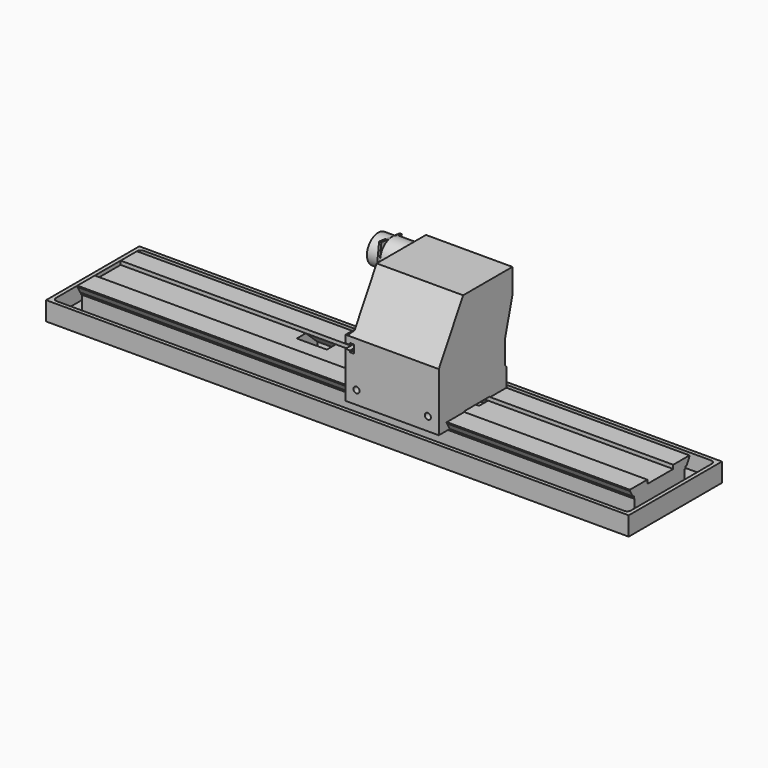
from build123d import *

# Parameters (mm, degrees)
F1_DEPTH       = 735
F2_W           = 1550
F2_H           = 310
F3_DEPTH       = 10
F4_W           = 1550
F4_H           = 310
F5_DEPTH       = 40
F7_DEPTH       = 10.0000041723
F10_DEPTH      = 80
F14_DEPTH      = 127.74
F14_DEPTH_BACK = 117
F16_DEPTH      = 248
F18_D          = 16
F19_R          = 40
F20_DEPTH      = 56
F21_R          = 37.5
F22_DEPTH      = 37
F23_R          = 20
F24_DEPTH      = 2
F25_W          = 100
F25_H          = 60
F26_DEPTH      = 38
F28_DEPTH      = 6


with BuildPart() as f1:
    # F0 (on Right) → F1 (new body, symmetric)
    with BuildSketch(Plane.YZ):
        Polygon((97, 0), (43, 0), (43, -10), (-43, -10), (-43, 0), (-101, 0), (-101, -3), (-91.1850454238, -20), (-88.1850454238, -20), (-88.1850454238, -26), (-85.1850454238, -26), (-85.1850454238, -65), (81.1850454238, -65), (81.1850454238, -26), (84.1850454238, -26), (84.1850454238, -20), (87.1850454238, -20), (97, -3), align=None)
    extrude(amount=F1_DEPTH, both=True)

    # F2 (on face) → F3 (join)
    with BuildSketch(Plane(origin=(0, 0, -65), x_dir=(1, 0, 0), z_dir=(0, 0, -1))):
        Rectangle(F2_W, F2_H)
    extrude(amount=F3_DEPTH)

    # F4 (on face) → F5 (join)
    with BuildSketch(Plane.XY.offset(-65)):
        Rectangle(F4_W, F4_H)
        with BuildLine():
            ThreePointArc((-764.9999958277, 134.9999958277), (-762.0710636395, 142.0710636395), (-754.9999958277, 144.9999958277))
            Line((-754.9999958277, 144.9999958277), (754.9999958277, 144.9999958277))
            ThreePointArc((754.9999958277, 144.9999958277), (762.0710636395, 142.0710636395), (764.9999958277, 134.9999958277))
            Line((764.9999958277, 134.9999958277), (764.9999958277, -134.9999958277))
            ThreePointArc((764.9999958277, -134.9999958277), (762.0710636395, -142.0710636395), (754.9999958277, -144.9999958277))
            Line((754.9999958277, -144.9999958277), (-754.9999958277, -144.9999958277))
            ThreePointArc((-754.9999958277, -144.9999958277), (-762.0710636395, -142.0710636395), (-764.9999958277, -134.9999958277))
            Line((-764.9999958277, -134.9999958277), (-764.9999958277, 134.9999958277))
        make_face(mode=Mode.SUBTRACT)
    extrude(amount=F5_DEPTH)

    # F6 (on face) → F7 (cut, through all)
    with BuildSketch(Plane.XZ.offset(-144.9999958277)):
        Polygon((110, -65), (150, -25), (-150, -25), (-110, -65), align=None)
    extrude(amount=-F7_DEPTH, mode=Mode.SUBTRACT)


with BuildPart() as f10:
    # F9 (on offset) → F10 (new body)
    with BuildSketch(Plane.YZ.offset(162.5)):
        Polygon((43, -10), (13, -10), (13, -30), (73.6217782649, -65), (81.1850454238, -65), (81.1850454238, -45), align=None)
    extrude(amount=F10_DEPTH)


with BuildPart() as f11_1:
    # F11: instance of F10
    add(f10.part.mirror(Plane.YZ))


with BuildPart() as f1_1:
    add(f1.part)

    # F12: cut F10, F11_1
    add(f10.part, mode=Mode.SUBTRACT)
    add(f11_1.part, mode=Mode.SUBTRACT)


with BuildPart() as f14:
    # F13 (on Front) → F14 (new body, two sides)
    with BuildSketch(Plane.XZ) as f14_sk:
        Polygon((0, 102), (0, -20), (248, -20), (248, 275), (18, 275), (18, 148), (5, 135), (0, 135), (0, 115), (12, 115), (12, 119.4), (22, 119.4), (22, 97.6), (12, 97.6), (12, 102), align=None)
    extrude(amount=F14_DEPTH)
    extrude(f14_sk.sketch, amount=-F14_DEPTH_BACK)

    # F15 (on face) → F16 (cut, through all)
    with BuildSketch(Plane(origin=(0, 0, 0), x_dir=(0, -1, 0), z_dir=(-1, 0, 0))):
        Polygon((127.74, 275), (46.9109623135, 275), (127.74, 135), align=None)
        Polygon((-117, 208.3012701892), (-117, 102), (-92, 102), (-92, 115), align=None)
        Polygon((-117, -20), (91.1850454238, -20), (102.7320508076, 0), (43, 0), (43, 2), (-43, 2), (-43, 0), (-97, 0), (-97, 50), (-92, 55), (-92, 102), (-117, 102), align=None)
    extrude(amount=-F16_DEPTH, mode=Mode.SUBTRACT)

    # F18 (through all)
    with Locations(Plane.XZ.offset(127.74)):
        with Locations((29, 15), (219, 15)):
            Hole(F18_D / 2)

    # F19 (on face) → F20 (join)
    with BuildSketch(Plane(origin=(18, 0, 0), x_dir=(0, -1, 0), z_dir=(-1, 0, 0))):
        with Locations((-74.5, 230)):
            Circle(F19_R)
    extrude(amount=F20_DEPTH)

    # F21 (on face) → F22 (join)
    with BuildSketch(Plane(origin=(-38, 0, 0), x_dir=(0, -1, 0), z_dir=(-1, 0, 0))):
        with Locations((-74.5, 230)):
            Circle(F21_R)
    extrude(amount=F22_DEPTH)

    # F23 (on face) → F24 (join)
    with BuildSketch(Plane(origin=(-75, 0, 0), x_dir=(0, -1, 0), z_dir=(-1, 0, 0))):
        with Locations((-74.5, 230)):
            Circle(F23_R)
    extrude(amount=F24_DEPTH)


with BuildPart() as f26:
    # F25 (on face) → F26 (new body)
    with BuildSketch(Plane(origin=(0, 0, 0), x_dir=(0, -1, 0), z_dir=(-1, 0, 0))):
        with Locations((-38.8895094395, 105)):
            Rectangle(F25_W, F25_H)
    extrude(amount=F26_DEPTH)


with BuildPart() as f28:
    # F27 (on face) → F28 (new body)
    with BuildSketch(Plane(origin=(-38, 0, 0), x_dir=(0, -1, 0), z_dir=(-1, 0, 0))):
        Polygon((-107.1801793967, 262.5484420728), (-97.3811000586, 246.8583136797), (-63.4147301316, 256.1990916729), (-58.7206114187, 206.2205382433), (-57.4906279968, 193.1248336123), (-48.9790178835, 102.5012284517), (-16.7109631002, 102.5012284517), (-38.7891046703, 271.4839577675), align=None)
        Polygon((-57.4906279968, 193.1248336123), (-58.7206114187, 206.2205382433), (-81.9822331447, 204.03574484), (-80.7522497228, 190.940040209), align=None)
    extrude(amount=F28_DEPTH)


solid = Compound([f1_1.part, f14.part, f26.part, f28.part])
